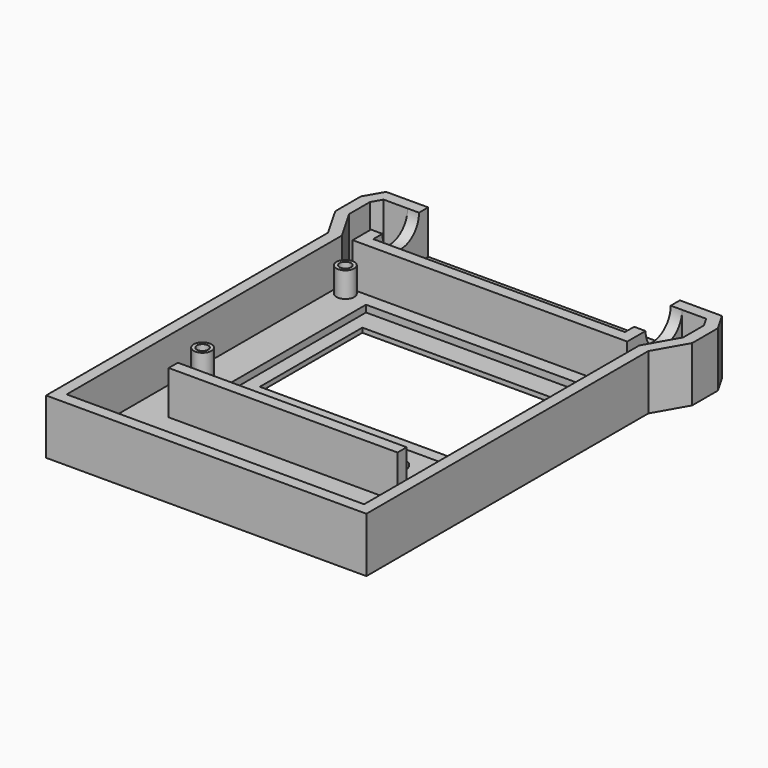
from build123d import *

# Parameters (mm, degrees)
F2_DEPTH      = 12
F3_W          = 55
F3_H          = 15
F4_DEPTH      = 9.5
F6_DEPTH      = 9.5
F7_R          = 5
F8_DEPTH      = 57.5
F8_DEPTH_BACK = 2.5
F9_W          = 50
F9_H          = 2.5
F10_DEPTH     = 9.5
F11_W         = 43
F11_H         = 28
F11_R         = 3
F12_DEPTH     = 2.5
F13_W         = 49
F13_H         = 37.5
F14_DEPTH     = 1.5
F15_R         = 1.95
F16_DEPTH     = 5.5
F17_R         = 1.25
F18_DEPTH     = 6


with BuildPart() as f2:
    # F1 (on Top) → F2 (new body)
    with BuildSketch(Plane.XY):
        Polygon((-35, 38.5), (-35, -38.5), (35, -38.5), (35, 38.5), (39, 45.5), (39, 52.5), (36.6905989232, 56.5), (-36.6905989232, 56.5), (-39, 52.5), (-39, 45.5), align=None)
    extrude(amount=F2_DEPTH)

    # F3 (on face) → F4 (cut)
    with BuildSketch(Plane.XY.offset(12)):
        with Locations((0, 49)):
            Rectangle(F3_W, F3_H)
    extrude(amount=-F4_DEPTH, mode=Mode.SUBTRACT)

    # F5 (on face) → F6 (cut)
    with BuildSketch(Plane.XY.offset(12)):
        Polygon((-32.5, 39.1639110927), (-32.5, -36), (32.5, -36), (32.5, 39.1639110927), (36.5, 46.1639110927), (36.5, 51.8301270189), (35.2472232503, 54), (30, 54), (30, 39), (-30, 39), (-30, 54), (-35.2472232503, 54), (-36.5, 51.8301270189), (-36.5, 46.1639110927), align=None)
    extrude(amount=-F6_DEPTH, mode=Mode.SUBTRACT)

    # F7 (on face) → F8 (cut, two sides)
    with BuildSketch(Plane.YZ.offset(-27.5)) as f8_sk:
        with Locations((49, 12)):
            Circle(F7_R)
    extrude(amount=F8_DEPTH, mode=Mode.SUBTRACT)
    extrude(f8_sk.sketch, amount=-F8_DEPTH_BACK, mode=Mode.SUBTRACT)

    # F9 (on face) → F10 (join)
    with BuildSketch(Plane.XY.offset(2.5)):
        with Locations((0, -16.25)):
            Rectangle(F9_W, F9_H)
    extrude(amount=F10_DEPTH)

    # F11 (on face) → F12 (cut, through all)
    with BuildSketch(Plane.XY.offset(2.5)):
        with Locations((-0.22, 17.29)):
            Rectangle(F11_W, F11_H)
        with Locations((-15.72, -7.5)):
            Circle(F11_R)
        with Locations((-5.24, -7.5)):
            Circle(F11_R)
        with Locations((5.24, -7.5)):
            Circle(F11_R)
        with Locations((15.72, -7.5)):
            Circle(F11_R)
    extrude(amount=-F12_DEPTH, mode=Mode.SUBTRACT)

    # F13 (on face) → F14 (cut)
    with BuildSketch(Plane.XY.offset(2.5)):
        with Locations((-0.22, 17.29)):
            Rectangle(F13_W, F13_H)
    extrude(amount=-F14_DEPTH, mode=Mode.SUBTRACT)

    # F15 (on face) → F16 (join)
    with BuildSketch(Plane.XY.offset(2.5)):
        with Locations((-30, 37)):
            Circle(F15_R)
        with Locations((30, 37)):
            Circle(F15_R)
        with Locations((-30, -2)):
            Circle(F15_R)
        with Locations((30, -2)):
            Circle(F15_R)
    extrude(amount=F16_DEPTH)

    # F17 (on face) → F18 (cut)
    with BuildSketch(Plane.XY.offset(8)):
        with Locations((-30, 37)):
            Circle(F17_R)
        with Locations((30, 37)):
            Circle(F17_R)
        with Locations((30, -2)):
            Circle(F17_R)
        with Locations((-30, -2)):
            Circle(F17_R)
    extrude(amount=-F18_DEPTH, mode=Mode.SUBTRACT)


solid = f2.part
